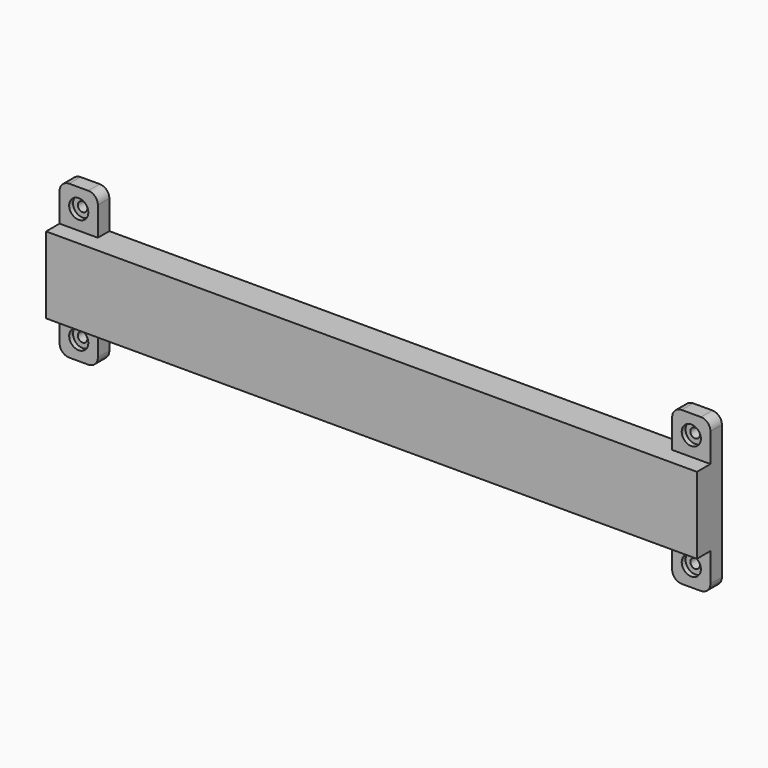
from build123d import *

# Parameters (mm, degrees)
F0_W           = 431.8
F0_H           = 50.8
F1_DEPTH       = 20.7264
F2_W           = 25.4
F2_H           = 9.525
F3_DEPTH       = 25.4
F4_W           = 25.4
F4_H           = 9.525
F5_DEPTH       = 25.4
F6_R           = 6.35
F8_D           = 6.35
F8_CBORE_D     = 12.7
F8_CBORE_DEPTH = 3.175


with BuildPart() as f1:
    # F0 (on Front) → F1 (new body)
    with BuildSketch(Plane.XZ):
        with Locations((20.574, -37.44022)):
            Rectangle(F0_W, F0_H)
    extrude(amount=F1_DEPTH)

    # F2 (on face) → F3 (join)
    with BuildSketch(Plane(origin=(0, 0, -62.84022), x_dir=(1, 0, 0), z_dir=(0, 0, -1))):
        with Locations((-182.626, 4.7625)):
            Rectangle(F2_W, F2_H)
        with Locations((223.774, 4.7625)):
            Rectangle(F2_W, F2_H)
    extrude(amount=F3_DEPTH)

    # F4 (on face) → F5 (join)
    with BuildSketch(Plane.XY.offset(-12.04022)):
        with Locations((-182.626, -4.7625)):
            Rectangle(F4_W, F4_H)
        with Locations((223.774, -4.7625)):
            Rectangle(F4_W, F4_H)
    extrude(amount=F5_DEPTH)

    # F6
    f6_edges = [f1.edges().sort_by_distance(p)[0] for p in [
        (236.474, -4.7625, -88.24022),
        (211.074, -4.7625, -88.24022),
        (236.474, -4.7625, 13.35978),
        (211.074, -4.7625, 13.35978),
        (-169.926, -4.7625, 13.35978),
        (-195.326, -4.7625, 13.35978),
        (-195.326, -4.7625, -88.24022),
        (-169.926, -4.7625, -88.24022),
    ]]
    fillet(f6_edges, radius=F6_R)

    # F8 (through all)
    with Locations(Plane.XZ.offset(9.525)):
        with Locations((-182.626, 0.65978), (-182.626, -75.54022), (223.774, 0.65978), (223.774, -75.54022)):
            CounterBoreHole(F8_D / 2, F8_CBORE_D / 2, F8_CBORE_DEPTH)


solid = f1.part
